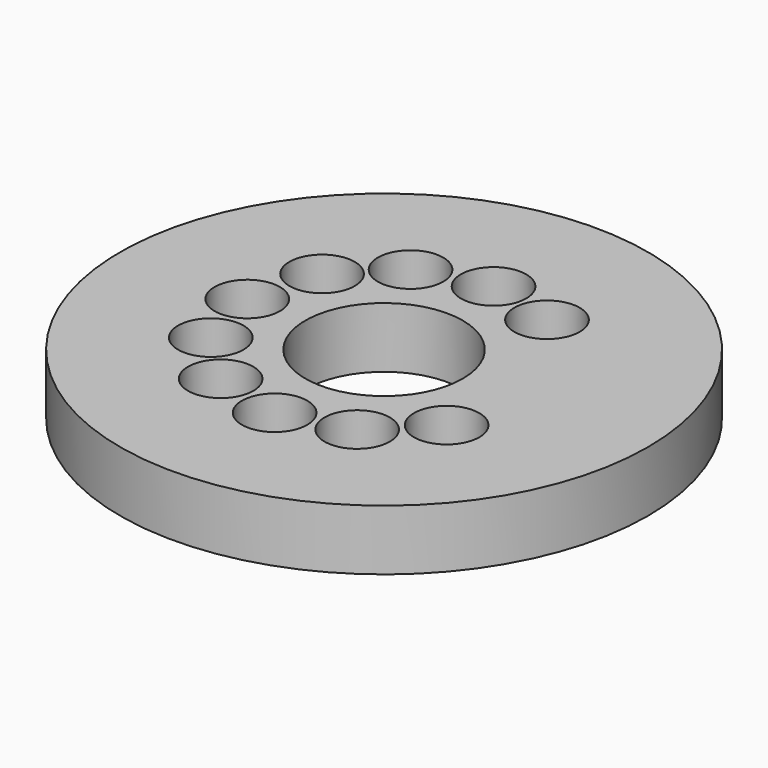
from build123d import *

# Parameters (mm, degrees)
F0_R     = 109
F0_R_2   = 75
F0_R_3   = 13.5
F0_R_4   = 37.5
F0_R_5   = 32.5
F1_DEPTH = 25


with BuildPart() as f1:
    # F0 (on Top) → F1 (new body)
    with BuildSketch(Plane.XY):
        Circle(F0_R)
        Circle(F0_R_2, mode=Mode.SUBTRACT)
        Circle(F0_R_2)
        with Locations((-28.408734, -48.838446)):
            Circle(F0_R_3, mode=Mode.SUBTRACT)
        with Locations((-48.848327, -28.391741)):
            Circle(F0_R_3, mode=Mode.SUBTRACT)
        with Locations((0, -56.5)):
            Circle(F0_R_3, mode=Mode.SUBTRACT)
        with Locations((28.099003, -49.017303)):
            Circle(F0_R_3, mode=Mode.SUBTRACT)
        with Locations((48.722864, -28.606512)):
            Circle(F0_R_3, mode=Mode.SUBTRACT)
        with Locations((-56.5, 0)):
            Circle(F0_R_3, mode=Mode.SUBTRACT)
        with Locations((-48.624626, 28.773177)):
            Circle(F0_R_3, mode=Mode.SUBTRACT)
        with Locations((-28.228625, 48.94277)):
            Circle(F0_R_3, mode=Mode.SUBTRACT)
        Circle(F0_R_4, mode=Mode.SUBTRACT)
        with Locations((28.012047, 49.067048)):
            Circle(F0_R_3, mode=Mode.SUBTRACT)
        with Locations((0, 56.5)):
            Circle(F0_R_3, mode=Mode.SUBTRACT)
        Circle(F0_R_4)
        Circle(F0_R_5, mode=Mode.SUBTRACT)
    extrude(amount=F1_DEPTH)


solid = f1.part
